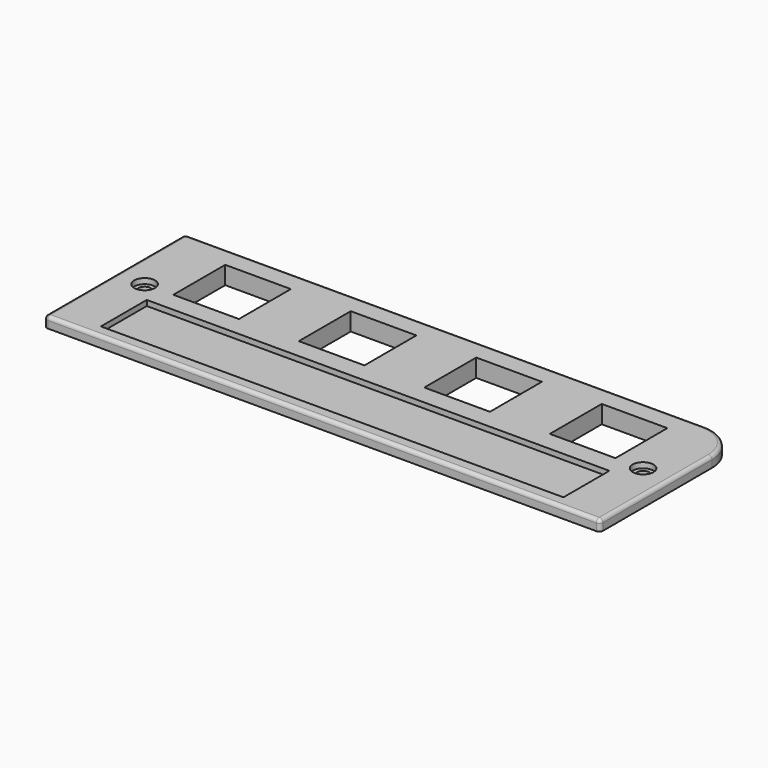
from build123d import *

# Parameters (mm, degrees)
PAD_DEPTH              = 3
SKETCH001_W            = 18.3
SKETCH001_H            = 18.1
POCKET_DEPTH           = 3.001
LINEARPATTERN_COUNT    = 4
LINEARPATTERN_PITCH    = 35
SKETCH002_W            = 129
SKETCH002_H            = 16
POCKET001_DEPTH        = 1.5
HOLE_D                 = 3.4
HOLE_CBORE_D           = 5.8
HOLE_CBORE_DEPTH       = 1.5
SKETCH004_W            = 22.3
SKETCH004_H            = 22.1
SKETCH004_W_2          = 18.3
SKETCH004_H_2          = 18.1
PAD001_DEPTH           = 2
LINEARPATTERN001_COUNT = 4
LINEARPATTERN001_PITCH = 35
FILLET_R               = 1
FILLET001_R            = 1
FILLET002_R            = 1


with BuildPart() as part:
    # Sketch → Pad (new body)
    with BuildSketch(Plane.XY):
        with BuildLine():
            Line((145, 49), (0, 49))
            Line((0, 49), (0, 0))
            Line((0, 0), (155, 0))
            Line((155, 0), (155, 39))
            ThreePointArc((155, 39), (152.071068, 46.071068), (145, 49))
        make_face()
    extrude(amount=PAD_DEPTH)

    # Sketch001 (on Face7 of Pad) → Pocket (cut, through all)
    with BuildSketch(Plane.XY.offset(3)):
        with Locations((25.15, 34.05)):
            Rectangle(SKETCH001_W, SKETCH001_H)
    pocket = extrude(amount=-POCKET_DEPTH, mode=Mode.SUBTRACT)

    # LinearPattern: Pocket ×4
    with Locations(*[(i * LINEARPATTERN_PITCH, 0, 0) for i in range(1, LINEARPATTERN_COUNT)]):
        add(pocket, mode=Mode.SUBTRACT)

    # Sketch002 (on Face5 of LinearPattern) → Pocket001 (cut)
    with BuildSketch(Plane.XY.offset(3)):
        with Locations((77.5, 11.5)):
            Rectangle(SKETCH002_W, SKETCH002_H)
    extrude(amount=-POCKET001_DEPTH, mode=Mode.SUBTRACT)

    # Hole (through all)
    with Locations(Plane.XY.offset(3)):
        with Locations((8, 25), (147, 25)):
            CounterBoreHole(HOLE_D / 2, HOLE_CBORE_D / 2, HOLE_CBORE_DEPTH)

    # Sketch004 (on Face4 of Hole) → Pad001 (join)
    with BuildSketch(Plane(origin=(0, 0, 0), x_dir=(1, 0, 0), z_dir=(0, 0, -1))):
        with Locations((25.15, -34.05)):
            Rectangle(SKETCH004_W, SKETCH004_H)
        with Locations((25.15, -34.05)):
            Rectangle(SKETCH004_W_2, SKETCH004_H_2, mode=Mode.SUBTRACT)
    pad001 = extrude(amount=PAD001_DEPTH)

    # LinearPattern001: Pad001 ×4
    with Locations(*[(i * LINEARPATTERN001_PITCH, 0, 0) for i in range(1, LINEARPATTERN001_COUNT)]):
        add(pad001)

    # Fillet
    fillet_edges = [part.edges().sort_by_distance(p)[0] for p in [
        (72.5, 49, 3),
    ]]
    fillet(fillet_edges, radius=FILLET_R)

    # Fillet001
    fillet001_edges = [part.edges().sort_by_distance(p)[0] for p in [
        (77, 0, 3),
    ]]
    fillet(fillet001_edges, radius=FILLET001_R)

    # Fillet002
    fillet002_edges = [part.edges().sort_by_distance(p)[0] for p in [
        (0, 24.5, 3),
    ]]
    fillet(fillet002_edges, radius=FILLET002_R)


solid = part.part
